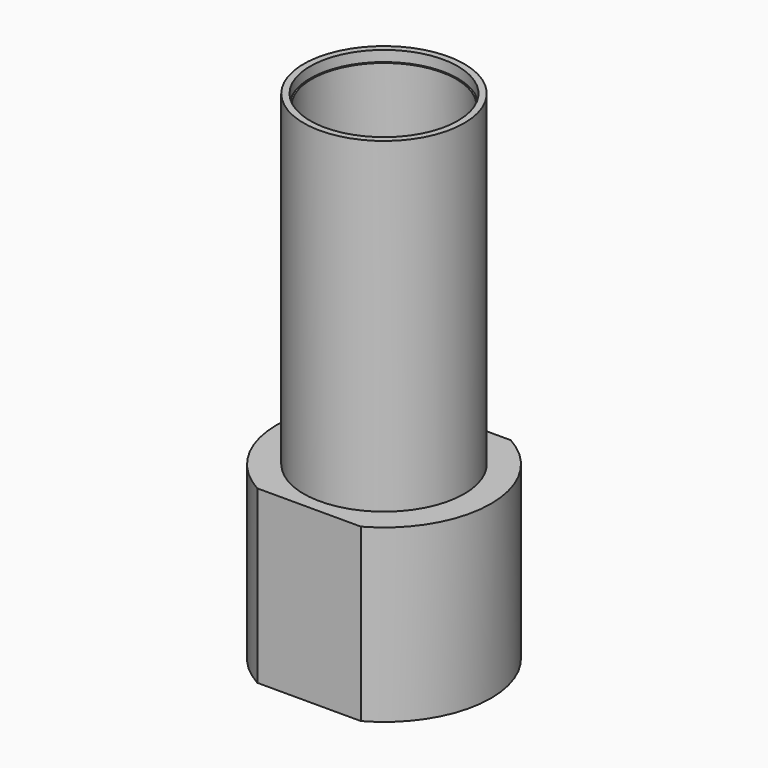
from build123d import *

# Parameters (mm, degrees)
F0_W      = 13
F0_H      = 13
F1_DEPTH  = 16
F3_D      = 10.8
F4_R      = 7.5
F5_DEPTH  = 30.5
F6_R      = 6.9
F7_DEPTH  = 1
F8_R      = 6.75
F9_DEPTH  = 9.8
F10_R     = 2.5
F11_DEPTH = 50
F12_R     = 10
F12_W     = 13
F12_H     = 13
F13_DEPTH = 16
F15_DEPTH = 25


with BuildPart() as f1:
    # F0 (on Top) → F1 (new body)
    with BuildSketch(Plane.XY):
        Rectangle(F0_W, F0_H)
    extrude(amount=F1_DEPTH)

    # F3 (through all)
    with Locations(Plane(origin=(0, 0, 0), x_dir=(1, 0, 0), z_dir=(0, 0, -1))):
        with Locations((0, 0)):
            Hole(F3_D / 2)

    # F4 (on face) → F5 (join)
    with BuildSketch(Plane.XY.offset(16)):
        Circle(F4_R)
    extrude(amount=F5_DEPTH)

    # F6 (on face) → F7 (cut)
    with BuildSketch(Plane.XY.offset(46.5)):
        Circle(F6_R)
    extrude(amount=-F7_DEPTH, mode=Mode.SUBTRACT)

    # F8 (on face) → F9 (cut)
    with BuildSketch(Plane.XY.offset(45.5)):
        Circle(F8_R)
    extrude(amount=-F9_DEPTH, mode=Mode.SUBTRACT)

    # F10 (on face) → F11 (cut)
    with BuildSketch(Plane.XY.offset(35.7)):
        Circle(F10_R)
    extrude(amount=-F11_DEPTH, mode=Mode.SUBTRACT)

    # F12 (on face) → F13 (join, through all)
    with BuildSketch(Plane(origin=(0, 0, 0), x_dir=(1, 0, 0), z_dir=(0, 0, -1))):
        Circle(F12_R)
        Rectangle(F12_W, F12_H, mode=Mode.SUBTRACT)
    extrude(amount=-F13_DEPTH)

    # F14 (on face) → F15 (cut)
    with BuildSketch(Plane(origin=(0, 0, 0), x_dir=(1, 0, 0), z_dir=(0, 0, -1))):
        with BuildLine():
            ThreePointArc((4.8412291828, 8.75), (0, 10), (-4.8412291828, 8.75))
            Line((-4.8412291828, 8.75), (4.8412291828, 8.75))
        make_face()
        with BuildLine():
            Line((4.8412291828, -8.75), (-4.8412291828, -8.75))
            ThreePointArc((-4.8412291828, -8.75), (0, -10), (4.8412291828, -8.75))
        make_face()
    extrude(amount=-F15_DEPTH, mode=Mode.SUBTRACT)


solid = f1.part
